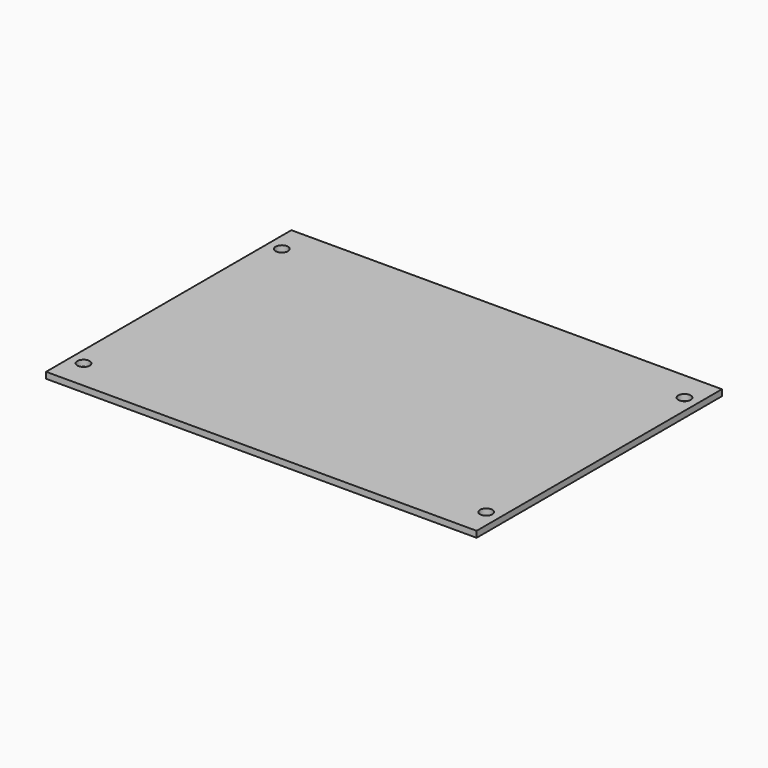
from build123d import *

# Parameters (mm, degrees)
SKETCH001_W     = 139
SKETCH001_H     = 99
PAD_DEPTH       = 2
SKETCH003_R     = 2
POCKET_DEPTH    = 5
SKETCH004_R     = 2
POCKET001_DEPTH = 5
SKETCH005_R     = 2
POCKET002_DEPTH = 5
SKETCH006_R     = 2
POCKET003_DEPTH = 5


with BuildPart() as part:
    # Sketch001 → Pad (new body)
    with BuildSketch(Plane.XY):
        with Locations((75, 60)):
            Rectangle(SKETCH001_W, SKETCH001_H)
    extrude(amount=PAD_DEPTH)

    # Sketch003 → Pocket (cut)
    with BuildSketch(Plane.XY):
        with Locations((10, 20)):
            Circle(SKETCH003_R)
    extrude(amount=POCKET_DEPTH, mode=Mode.SUBTRACT)

    # Sketch004 → Pocket001 (cut)
    with BuildSketch(Plane.XY):
        with Locations((10, 100)):
            Circle(SKETCH004_R)
    extrude(amount=POCKET001_DEPTH, mode=Mode.SUBTRACT)

    # Sketch005 → Pocket002 (cut)
    with BuildSketch(Plane.XY):
        with Locations((140, 20)):
            Circle(SKETCH005_R)
    extrude(amount=POCKET002_DEPTH, mode=Mode.SUBTRACT)

    # Sketch006 → Pocket003 (cut)
    with BuildSketch(Plane.XY):
        with Locations((140, 100)):
            Circle(SKETCH006_R)
    extrude(amount=POCKET003_DEPTH, mode=Mode.SUBTRACT)


solid = part.part
